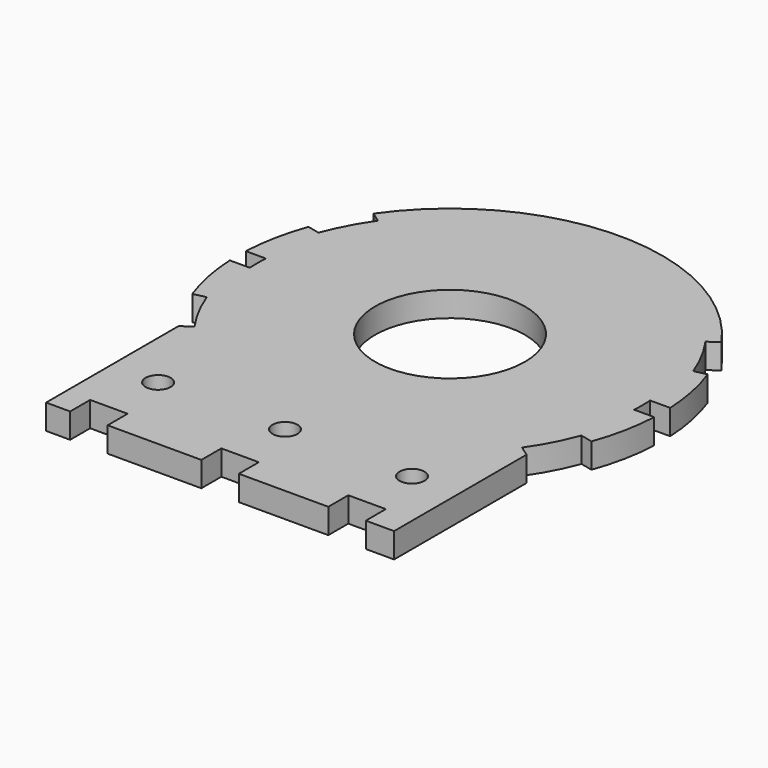
from build123d import *

# Parameters (mm, degrees)
SKETCH006_R     = 3
PAD005_DEPTH    = 1
SKETCH016_R     = 0.5
POCKET004_DEPTH = 2
POCKET005_DEPTH = 5


with BuildPart() as part:
    # Sketch006 (on ShapeBinder) → Pad005 (new body)
    with BuildSketch(Plane(origin=(0, 0, 0), x_dir=(1, 0, 0), z_dir=(0, 0, -1))):
        with BuildLine():
            ThreePointArc((-7.987387, 2.907171), (-8.333808, 1.672617), (-8.490583, 0.4))
            Line((-7.689603, 0.4), (-8.490583, 0.4))
            ThreePointArc((-7.689603, 0.4), (-7.7, 0), (-7.689603, -0.4))
            Line((-7.689603, -0.4), (-8.490583, -0.4))
            ThreePointArc((-8.490583, -0.4), (-8.333808, -1.672617), (-7.987387, -2.907171))
            Line((-7.987387, -2.907171), (-7.496671, -2.792834))
            ThreePointArc((-7.496671, -2.792834), (-7.082093, -3.720747), (-6.553216, -4.588611))
            Line((-6.962792, -4.8754), (-6.553216, -4.588611))
            ThreePointArc((-6.962792, -4.8754), (0, -8.5), (6.962792, -4.8754))
            Line((6.962792, -4.8754), (6.553216, -4.588611))
            ThreePointArc((6.553216, -4.588611), (7.082093, -3.720747), (7.496671, -2.792834))
            Line((7.987387, -2.907171), (7.496671, -2.792834))
            ThreePointArc((7.987387, -2.907171), (8.333808, -1.672617), (8.490583, -0.4))
            Line((8.490583, -0.4), (7.689603, -0.4))
            ThreePointArc((7.689603, -0.4), (7.7, 0), (7.689603, 0.4))
            Line((8.490583, 0.4), (7.689603, 0.4))
            ThreePointArc((8.490583, 0.4), (8.333808, 1.672617), (7.987387, 2.907171))
            Line((7.987387, 2.907171), (7.496671, 2.792834))
            ThreePointArc((7.496671, 2.792834), (7.082093, 3.720747), (6.553216, 4.588611))
            Line((6.962792, 4.8754), (6.553216, 4.588611))
            Line((6.962792, 4.8754), (6.962792, 11.5))
            Line((6.962792, 11.5), (-6.962792, 11.5))
            Line((-6.962792, 4.8754), (-6.962792, 11.5))
            Line((-6.962792, 4.8754), (-6.553216, 4.588611))
            ThreePointArc((-6.553216, 4.588611), (-7.082093, 3.720747), (-7.496671, 2.792834))
            Line((-7.987387, 2.907171), (-7.496671, 2.792834))
        make_face()
        Circle(SKETCH006_R, mode=Mode.SUBTRACT)
    extrude(amount=PAD005_DEPTH)

    # Sketch016 (on Face28 of Pad005) → Pocket004 (cut)
    with BuildSketch(Plane.XY):
        with Locations((0, -8.25)):
            Circle(SKETCH016_R)
        with Locations((-5.08, -8.25)):
            Circle(SKETCH016_R)
        with Locations((5.08, -8.25)):
            Circle(SKETCH016_R)
    extrude(amount=-POCKET004_DEPTH, mode=Mode.SUBTRACT)

    # Sketch017 (on Face4 of Pocket004) → Pocket005 (cut)
    with BuildSketch(Plane.XY):
        Polygon((-6.962792, -11.5), (-6, -11.5), (-6, -10.5), (-4.5, -10.5), (-4.5, -11.5), (-0.75, -11.5), (-0.75, -10.5), (0.75, -10.5), (0.75, -11.5), (4.33, -11.5), (4.33, -10.5), (5.83, -10.5), (5.83, -11.5), (6.962792, -11.5), (6.962792, -12.871278), (-6.962792, -12.871278), align=None)
    extrude(amount=-POCKET005_DEPTH, mode=Mode.SUBTRACT)


solid = part.part
